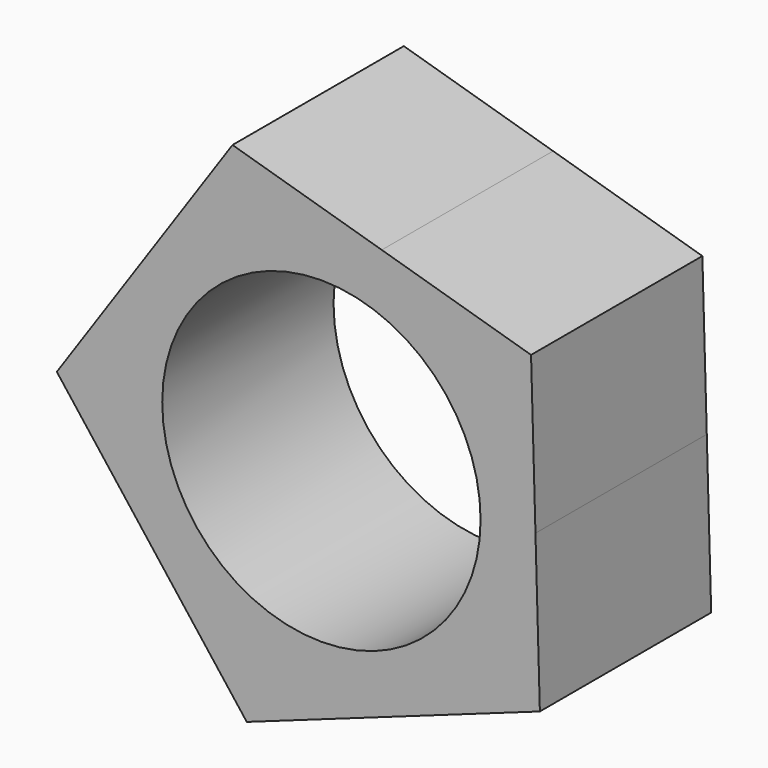
from build123d import *

# Parameters (mm, degrees)
F1_DEPTH = 25.4
F0_R     = 18.8803746014
F2_DEPTH = 25.4


with BuildPart() as f1:
    # F0 (on Front) → F1 (new body)
    with BuildSketch(Plane.XZ):
        with BuildLine():
            ThreePointArc((7.1609582992, 24.3696671343), (20.1174678851, 15.5063692041), (25.3897885366, 0.7201653034))
            Line((25.3897885366, 0.7201653034), (24.8665577157, 19.1669265832))
            Line((24.8665577157, 19.1669265832), (7.1609582992, 24.3696671343))
        make_face()
    extrude(amount=F1_DEPTH)


with BuildPart() as f1b:
    # F0 (on Front) → F1, piece 2 (new body)
    with BuildSketch(Plane.XZ):
        with BuildLine():
            ThreePointArc((-20.9640729468, 14.3411173024), (-8.5307940091, 23.9245805308), (7.1609582992, 24.3696671343))
            Line((7.1609582992, 24.3696671343), (-10.5446414986, 29.5724077975))
            Line((-10.5446414986, 29.5724077975), (-20.9640729468, 14.3411173024))
        make_face()
    extrude(amount=F1_DEPTH)


with BuildPart() as f1c:
    # F0 (on Front) → F1, piece 3 (new body)
    with BuildSketch(Plane.XZ):
        with BuildLine():
            Line((-31.383504561, -0.8901734352), (-20.1174677641, -15.506369361))
            ThreePointArc((-20.1174677641, -15.506369361), (-25.3897885345, -0.7201653795), (-20.9640729468, 14.3411173024))
            Line((-20.9640729468, 14.3411173024), (-31.383504561, -0.8901734352))
        make_face()
    extrude(amount=F1_DEPTH)


with BuildPart() as f1d:
    # F0 (on Front) → F1, piece 4 (new body)
    with BuildSketch(Plane.XZ):
        with BuildLine():
            Line((-8.8514310062, -30.1225652363), (8.530796239, -23.9245797357))
            ThreePointArc((8.530796239, -23.9245797357), (-7.1609570405, -24.3696675042), (-20.1174677641, -15.506369361))
            Line((-20.1174677641, -15.506369361), (-8.8514310062, -30.1225652363))
        make_face()
    extrude(amount=F1_DEPTH)


with BuildPart() as f1e:
    # F0 (on Front) → F1, piece 5 (new body)
    with BuildSketch(Plane.XZ):
        with BuildLine():
            ThreePointArc((25.3897885366, 0.7201653034), (25.3974470059, 0.3601188478), (25.4, 0))
            ThreePointArc((25.4, 0), (20.7586394601, -14.6369015766), (8.530796239, -23.9245797357))
            Line((8.530796239, -23.9245797357), (25.91301935, -17.7265957092))
            Line((25.91301935, -17.7265957092), (25.3897885366, 0.7201653034))
        make_face()
    extrude(amount=F1_DEPTH)


with BuildPart() as f2:
    # F0 (on Front) → F2 (new body)
    with BuildSketch(Plane.XZ):
        with BuildLine():
            ThreePointArc((8.530796239, -23.9245797357), (20.7586394601, -14.6369015766), (25.4, 0))
            ThreePointArc((25.4, 0), (25.3974470059, 0.3601188478), (25.3897885366, 0.7201653034))
            ThreePointArc((25.3897885366, 0.7201653034), (20.1174678851, 15.5063692041), (7.1609582992, 24.3696671343))
            ThreePointArc((7.1609582992, 24.3696671343), (-8.5307940091, 23.9245805308), (-20.9640729468, 14.3411173024))
            ThreePointArc((-20.9640729468, 14.3411173024), (-25.3897885345, -0.7201653795), (-20.1174677641, -15.506369361))
            ThreePointArc((-20.1174677641, -15.506369361), (-7.1609570405, -24.3696675042), (8.530796239, -23.9245797357))
        make_face()
        Circle(F0_R, mode=Mode.SUBTRACT)
        with BuildLine():
            ThreePointArc((25.3897885366, 0.7201653034), (25.3974470059, 0.3601188478), (25.4, 0))
            ThreePointArc((25.4, 0), (20.7586394601, -14.6369015766), (8.530796239, -23.9245797357))
            Line((8.530796239, -23.9245797357), (25.91301935, -17.7265957092))
            Line((25.91301935, -17.7265957092), (25.3897885366, 0.7201653034))
        make_face()
        with BuildLine():
            ThreePointArc((7.1609582992, 24.3696671343), (20.1174678851, 15.5063692041), (25.3897885366, 0.7201653034))
            Line((25.3897885366, 0.7201653034), (24.8665577157, 19.1669265832))
            Line((24.8665577157, 19.1669265832), (7.1609582992, 24.3696671343))
        make_face()
        with BuildLine():
            Line((-8.8514310062, -30.1225652363), (8.530796239, -23.9245797357))
            ThreePointArc((8.530796239, -23.9245797357), (-7.1609570405, -24.3696675042), (-20.1174677641, -15.506369361))
            Line((-20.1174677641, -15.506369361), (-8.8514310062, -30.1225652363))
        make_face()
        with BuildLine():
            ThreePointArc((-20.9640729468, 14.3411173024), (-8.5307940091, 23.9245805308), (7.1609582992, 24.3696671343))
            Line((7.1609582992, 24.3696671343), (-10.5446414986, 29.5724077975))
            Line((-10.5446414986, 29.5724077975), (-20.9640729468, 14.3411173024))
        make_face()
        with BuildLine():
            Line((-31.383504561, -0.8901734352), (-20.1174677641, -15.506369361))
            ThreePointArc((-20.1174677641, -15.506369361), (-25.3897885345, -0.7201653795), (-20.9640729468, 14.3411173024))
            Line((-20.9640729468, 14.3411173024), (-31.383504561, -0.8901734352))
        make_face()
    extrude(amount=F2_DEPTH)


solid = Compound([f1.part, f1b.part, f1c.part, f1d.part, f1e.part, f2.part])
